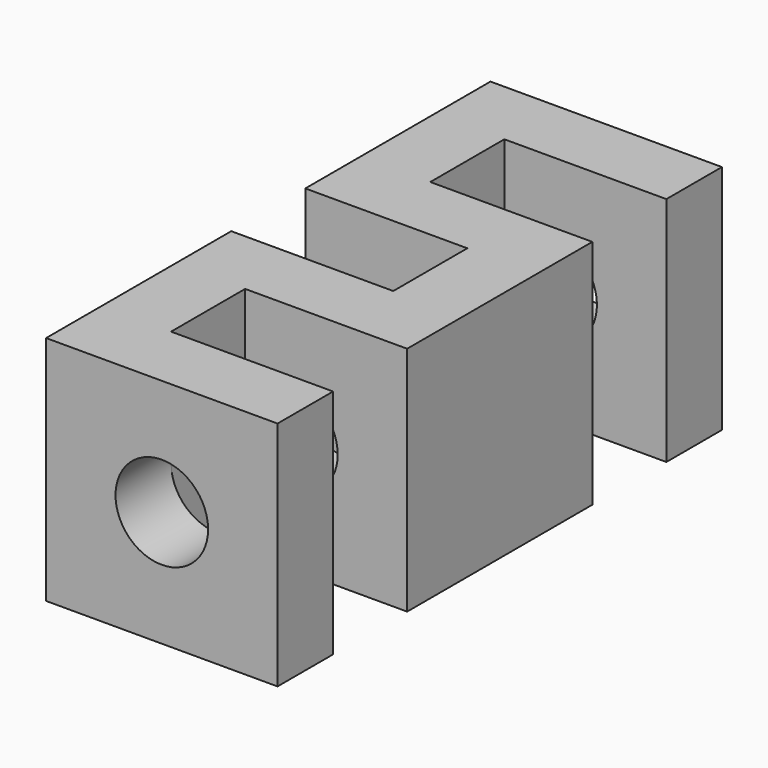
from build123d import *

# Parameters (mm, degrees)
F1_DEPTH = 10
F3_D     = 4


with BuildPart() as f1:
    # F0 (on Top) → F1 (new body)
    with BuildSketch(Plane.XY):
        Polygon((0, -3), (0, 0), (-10, 0), (-10, -10), (-3, -10), (-3, -14), (-10, -14), (-10, -24), (0, -24), (0, -21), (-7, -21), (-7, -17), (0, -17), (0, -7), (-7, -7), (-7, -3), align=None)
    extrude(amount=F1_DEPTH)

    # F3 (through all)
    with Locations(Plane(origin=(0, 0, 0), x_dir=(-1, 0, 0), z_dir=(0, 1, 0))):
        with Locations((5, 5)):
            Hole(F3_D / 2)


solid = f1.part
